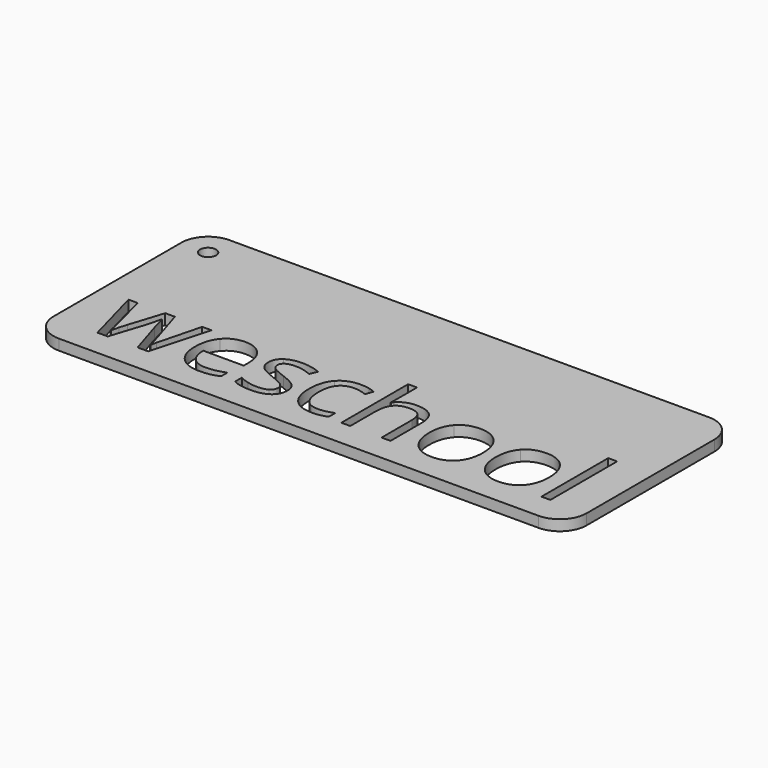
from build123d import *

# Parameters (mm, degrees)
F0_W     = 1.6708725437
F0_H     = 15.6559791523
F0_R     = 1.5
F1_DEPTH = 2


with BuildPart() as f1:
    # F0 (on Top) → F1 (new body)
    with BuildSketch(Plane.XY):
        with BuildLine():
            ThreePointArc((0, 5), (1.4644660941, 1.4644660941), (5, 0))
            Line((5, 0), (95, 0))
            ThreePointArc((95, 0), (98.5355339059, 1.4644660941), (100, 5))
            Line((100, 5), (100, 35))
            ThreePointArc((100, 35), (98.5355339059, 38.5355339059), (95, 40))
            Line((95, 40), (5, 40))
            ThreePointArc((5, 40), (1.4644660941, 38.5355339059), (0, 35))
            Line((0, 35), (0, 5))
        make_face()
        with BuildLine():
            Line((17.7585123135, 5), (15.7753572328, 5))
            Line((15.7753572328, 5), (13.7535692608, 11.4677898657))
            add(Edge.make_bspline(
                [(13.7535692608, 11.4677898657), (13.5604048049, 12.0633802715), (13.0388607739, 14.1656534334)],
                knots=[0, 0, 0, 1, 1, 1], degree=2))
            Line((13.0388607739, 14.1656534334), (12.9583755839, 14.1656534334))
            add(Edge.make_bspline(
                [(12.9583755839, 14.1656534334), (12.5559496341, 12.4046374769), (12.2533253198, 11.4484734201)],
                knots=[0, 0, 0, 1, 1, 1], degree=2))
            Line((12.2533253198, 11.4484734201), (10.1703686035, 5))
            Line((10.1703686035, 5), (8.2387240443, 5))
            Line((8.2387240443, 5), (5.2317973471, 16.0264710255))
            Line((5.2317973471, 16.0264710255), (6.9831550808, 16.0264710255))
            add(Edge.make_bspline(
                [(6.9831550808, 16.0264710255), (8.0487789959, 11.8702158156), (8.6073462143, 9.6971156865)],
                knots=[0, 0, 0, 1, 1, 1], degree=2))
            add(Edge.make_bspline(
                [(8.6073462143, 9.6971156865), (9.1659134327, 7.5240155574), (9.2463986226, 6.7706741793)],
                knots=[0, 0, 0, 1, 1, 1], degree=2))
            Line((9.2463986226, 6.7706741793), (9.3268838126, 6.7706741793))
            add(Edge.make_bspline(
                [(9.3268838126, 6.7706741793), (9.436343671, 7.3437287318), (9.6826283523, 8.2548210823)],
                knots=[0, 0, 0, 1, 1, 1], degree=2))
            add(Edge.make_bspline(
                [(9.6826283523, 8.2548210823), (9.9289130336, 9.1659134327), (10.1124192667, 9.6971156865)],
                knots=[0, 0, 0, 1, 1, 1], degree=2))
            Line((10.1124192667, 9.6971156865), (12.1342072387, 16.0264710255))
            Line((12.1342072387, 16.0264710255), (13.9435143091, 16.0264710255))
            Line((13.9435143091, 16.0264710255), (15.9170111671, 9.6971156865))
            add(Edge.make_bspline(
                [(15.9170111671, 9.6971156865), (16.4804074969, 7.968293806), (16.680010768, 6.7899906249)],
                knots=[0, 0, 0, 1, 1, 1], degree=2))
            Line((16.680010768, 6.7899906249), (16.7604959579, 6.7899906249))
            add(Edge.make_bspline(
                [(16.7604959579, 6.7899906249), (16.8023482567, 7.1537836835), (16.9778059709, 7.9087347654)],
                knots=[0, 0, 0, 1, 1, 1], degree=2))
            add(Edge.make_bspline(
                [(16.9778059709, 7.9087347654), (17.153263685, 8.6636858473), (19.0752500214, 16.0264710255)],
                knots=[0, 0, 0, 1, 1, 1], degree=2))
            Line((19.0752500214, 16.0264710255), (20.8040719019, 16.0264710255))
            Line((20.8040719019, 16.0264710255), (17.7585123135, 5))
        make_face(mode=Mode.SUBTRACT)
        with BuildLine():
            add(Edge.make_bspline(
                [(29.3612572992, 4.9645865164), (28.5725024375, 4.7971773213), (27.4553680007, 4.7971773213)],
                knots=[0, 0, 0, 1, 1, 1], degree=2))
            add(Edge.make_bspline(
                [(27.4553680007, 4.7971773213), (25.0118376333, 4.7971773213), (23.5969079937, 6.2877630395)],
                knots=[0, 0, 0, 1, 1, 1], degree=2))
            add(Edge.make_bspline(
                [(23.5969079937, 6.2877630395), (22.1819783541, 7.7783487577), (22.1819783541, 10.4214823962)],
                knots=[0, 0, 0, 1, 1, 1], degree=2))
            add(Edge.make_bspline(
                [(22.1819783541, 10.4214823962), (22.1819783541, 13.0903712955), (23.4954966544, 14.6598324998)],
                knots=[0, 0, 0, 1, 1, 1], degree=2))
            add(Edge.make_bspline(
                [(23.4954966544, 14.6598324998), (24.8090149546, 16.2292937042), (27.0239673825, 16.2292937042)],
                knots=[0, 0, 0, 1, 1, 1], degree=2))
            add(Edge.make_bspline(
                [(27.0239673825, 16.2292937042), (29.0940464685, 16.2292937042), (30.301324318, 14.8658745861)],
                knots=[0, 0, 0, 1, 1, 1], degree=2))
            add(Edge.make_bspline(
                [(30.301324318, 14.8658745861), (31.5086021675, 13.5024554681), (31.5086021675, 11.2681865946)],
                knots=[0, 0, 0, 1, 1, 1], degree=2))
            Line((31.5086021675, 11.2681865946), (31.5086021675, 10.2122209022))
            Line((31.5086021675, 10.2122209022), (23.9140196422, 10.2122209022))
            add(Edge.make_bspline(
                [(23.9140196422, 10.2122209022), (23.9655301638, 8.2709181203), (24.8959389598, 7.2648532457)],
                knots=[0, 0, 0, 1, 1, 1], degree=2))
            add(Edge.make_bspline(
                [(24.8959389598, 7.2648532457), (25.8263477558, 6.2587883711), (27.5165367451, 6.2587883711)],
                knots=[0, 0, 0, 1, 1, 1], degree=2))
            add(Edge.make_bspline(
                [(27.5165367451, 6.2587883711), (29.2968691472, 6.2587883711), (31.0353492505, 7.0024715264)],
                knots=[0, 0, 0, 1, 1, 1], degree=2))
            Line((31.0353492505, 7.0024715264), (31.0353492505, 5.5118858082))
            add(Edge.make_bspline(
                [(31.0353492505, 5.5118858082), (30.1500121608, 5.1319957115), (29.3612572992, 4.9645865164)],
                knots=[0, 0, 0, 1, 1, 1], degree=2))
        make_face(mode=Mode.SUBTRACT)
        with BuildLine():
            add(Edge.make_bspline(
                [(40.7804960516, 9.829111398), (41.4694492778, 9.1047446883), (41.4694492778, 8.0069266972)],
                knots=[0, 0, 0, 1, 1, 1], degree=2))
            add(Edge.make_bspline(
                [(41.4694492778, 8.0069266972), (41.4694492778, 6.468049865), (40.3233401726, 5.6326135931)],
                knots=[0, 0, 0, 1, 1, 1], degree=2))
            add(Edge.make_bspline(
                [(40.3233401726, 5.6326135931), (39.1772310675, 4.7971773213), (37.103932574, 4.7971773213)],
                knots=[0, 0, 0, 1, 1, 1], degree=2))
            add(Edge.make_bspline(
                [(37.103932574, 4.7971773213), (34.9115159993, 4.7971773213), (33.6849217042, 5.4925693626)],
                knots=[0, 0, 0, 1, 1, 1], degree=2))
            Line((33.6849217042, 5.4925693626), (33.6849217042, 7.0411044176))
            add(Edge.make_bspline(
                [(33.6849217042, 7.0411044176), (34.480115381, 6.6386784677), (35.3895980277, 6.4084908244)],
                knots=[0, 0, 0, 1, 1, 1], degree=2))
            add(Edge.make_bspline(
                [(35.3895980277, 6.4084908244), (36.2990806743, 6.1783031811), (37.1457848727, 6.1783031811)],
                knots=[0, 0, 0, 1, 1, 1], degree=2))
            add(Edge.make_bspline(
                [(37.1457848727, 6.1783031811), (38.4528643578, 6.1783031811), (39.1563049181, 6.5952164651)],
                knots=[0, 0, 0, 1, 1, 1], degree=2))
            add(Edge.make_bspline(
                [(39.1563049181, 6.5952164651), (39.8597454784, 7.0121297492), (39.8597454784, 7.8684921704)],
                knots=[0, 0, 0, 1, 1, 1], degree=2))
            add(Edge.make_bspline(
                [(39.8597454784, 7.8684921704), (39.8597454784, 8.5123736902), (39.3027879638, 8.9695295692)],
                knots=[0, 0, 0, 1, 1, 1], degree=2))
            add(Edge.make_bspline(
                [(39.3027879638, 8.9695295692), (38.7458304493, 9.4266854482), (37.1232490195, 10.0512505223)],
                knots=[0, 0, 0, 1, 1, 1], degree=2))
            add(Edge.make_bspline(
                [(37.1232490195, 10.0512505223), (35.5843721874, 10.6243050749), (34.9356615563, 11.0524862855)],
                knots=[0, 0, 0, 1, 1, 1], degree=2))
            add(Edge.make_bspline(
                [(34.9356615563, 11.0524862855), (34.2869509251, 11.4806674961), (33.9698392766, 12.0231376765)],
                knots=[0, 0, 0, 1, 1, 1], degree=2))
            add(Edge.make_bspline(
                [(33.9698392766, 12.0231376765), (33.6527276282, 12.5656078569), (33.6527276282, 13.318949235)],
                knots=[0, 0, 0, 1, 1, 1], degree=2))
            add(Edge.make_bspline(
                [(33.6527276282, 13.318949235), (33.6527276282, 14.6678810188), (34.7505456193, 15.4485873615)],
                knots=[0, 0, 0, 1, 1, 1], degree=2))
            add(Edge.make_bspline(
                [(34.7505456193, 15.4485873615), (35.8483636105, 16.2292937042), (37.7574723165, 16.2292937042)],
                knots=[0, 0, 0, 1, 1, 1], degree=2))
            add(Edge.make_bspline(
                [(37.7574723165, 16.2292937042), (39.5378047186, 16.2292937042), (41.2408713382, 15.5049269945)],
                knots=[0, 0, 0, 1, 1, 1], degree=2))
            Line((41.2408713382, 15.5049269945), (40.6452809325, 14.1463369878))
            add(Edge.make_bspline(
                [(40.6452809325, 14.1463369878), (38.9872860192, 14.8288513987), (37.6383542353, 14.8288513987)],
                knots=[0, 0, 0, 1, 1, 1], degree=2))
            add(Edge.make_bspline(
                [(37.6383542353, 14.8288513987), (36.4503928314, 14.8288513987), (35.8467539067, 14.4570098211)],
                knots=[0, 0, 0, 1, 1, 1], degree=2))
            add(Edge.make_bspline(
                [(35.8467539067, 14.4570098211), (35.2431149819, 14.0851682435), (35.2431149819, 13.4316285009)],
                knots=[0, 0, 0, 1, 1, 1], degree=2))
            add(Edge.make_bspline(
                [(35.2431149819, 13.4316285009), (35.2431149819, 12.9873502523), (35.4700832176, 12.676677419)],
                knots=[0, 0, 0, 1, 1, 1], degree=2))
            add(Edge.make_bspline(
                [(35.4700832176, 12.676677419), (35.6970514533, 12.3660045858), (36.1992790387, 12.0843064209)],
                knots=[0, 0, 0, 1, 1, 1], degree=2))
            add(Edge.make_bspline(
                [(36.1992790387, 12.0843064209), (36.7015066241, 11.802608256), (38.1309235979, 11.2681865946)],
                knots=[0, 0, 0, 1, 1, 1], degree=2))
            add(Edge.make_bspline(
                [(38.1309235979, 11.2681865946), (40.0915428255, 10.5534781077), (40.7804960516, 9.829111398)],
                knots=[0, 0, 0, 1, 1, 1], degree=2))
        make_face(mode=Mode.SUBTRACT)
        with BuildLine():
            add(Edge.make_bspline(
                [(51.3787858665, 5.3734512814), (50.2745290601, 4.7971773213), (48.5939982936, 4.7971773213)],
                knots=[0, 0, 0, 1, 1, 1], degree=2))
            add(Edge.make_bspline(
                [(48.5939982936, 4.7971773213), (46.1987590402, 4.7971773213), (44.8852407399, 6.2716660015)],
                knots=[0, 0, 0, 1, 1, 1], degree=2))
            add(Edge.make_bspline(
                [(44.8852407399, 6.2716660015), (43.5717224397, 7.7461546817), (43.5717224397, 10.4440182494)],
                knots=[0, 0, 0, 1, 1, 1], degree=2))
            add(Edge.make_bspline(
                [(43.5717224397, 10.4440182494), (43.5717224397, 13.2094893766), (44.9061668893, 14.7193915404)],
                knots=[0, 0, 0, 1, 1, 1], degree=2))
            add(Edge.make_bspline(
                [(44.9061668893, 14.7193915404), (46.240611339, 16.2292937042), (48.703458152, 16.2292937042)],
                knots=[0, 0, 0, 1, 1, 1], degree=2))
            add(Edge.make_bspline(
                [(48.703458152, 16.2292937042), (49.4986518288, 16.2292937042), (50.2938455057, 16.0570553976)],
                knots=[0, 0, 0, 1, 1, 1], degree=2))
            add(Edge.make_bspline(
                [(50.2938455057, 16.0570553976), (51.0890391826, 15.8848170911), (51.5397562464, 15.653019744)],
                knots=[0, 0, 0, 1, 1, 1], degree=2))
            Line((51.5397562464, 15.653019744), (51.0278704382, 14.2364804006))
            add(Edge.make_bspline(
                [(51.0278704382, 14.2364804006), (50.4741323312, 14.4586195249), (49.8205925887, 14.6034928668)],
                knots=[0, 0, 0, 1, 1, 1], degree=2))
            add(Edge.make_bspline(
                [(49.8205925887, 14.6034928668), (49.1670528462, 14.7483662088), (48.6648252608, 14.7483662088)],
                knots=[0, 0, 0, 1, 1, 1], degree=2))
            add(Edge.make_bspline(
                [(48.6648252608, 14.7483662088), (45.3037637278, 14.7483662088), (45.3037637278, 10.4633346949)],
                knots=[0, 0, 0, 1, 1, 1], degree=2))
            add(Edge.make_bspline(
                [(45.3037637278, 10.4633346949), (45.3037637278, 8.4318885002), (46.1231029616, 7.3453384356)],
                knots=[0, 0, 0, 1, 1, 1], degree=2))
            add(Edge.make_bspline(
                [(46.1231029616, 7.3453384356), (46.9424421955, 6.2587883711), (48.5521459948, 6.2587883711)],
                knots=[0, 0, 0, 1, 1, 1], degree=2))
            add(Edge.make_bspline(
                [(48.5521459948, 6.2587883711), (49.9300524471, 6.2587883711), (51.3787858665, 6.8511593692)],
                knots=[0, 0, 0, 1, 1, 1], degree=2))
            Line((51.3787858665, 6.8511593692), (51.3787858665, 5.3734512814))
        make_face(mode=Mode.SUBTRACT)
        with BuildLine():
            Line((63.2133281992, 5), (61.5424556555, 5))
            Line((61.5424556555, 5), (61.5424556555, 12.1342072387))
            add(Edge.make_bspline(
                [(61.5424556555, 12.1342072387), (61.5424556555, 13.4799196149), (60.9291585079, 14.144727284)],
                knots=[0, 0, 0, 1, 1, 1], degree=2))
            add(Edge.make_bspline(
                [(60.9291585079, 14.144727284), (60.3158613604, 14.8095349532), (59.0055624677, 14.8095349532)],
                knots=[0, 0, 0, 1, 1, 1], degree=2))
            add(Edge.make_bspline(
                [(59.0055624677, 14.8095349532), (57.2670823644, 14.8095349532), (56.4670595762, 13.8630291191)],
                knots=[0, 0, 0, 1, 1, 1], degree=2))
            add(Edge.make_bspline(
                [(56.4670595762, 13.8630291191), (55.6670367879, 12.9165232851), (55.6670367879, 10.7659590092)],
                knots=[0, 0, 0, 1, 1, 1], degree=2))
            Line((55.6670367879, 10.7659590092), (55.6670367879, 5))
            Line((55.6670367879, 5), (53.9961642442, 5))
            Line((53.9961642442, 5), (53.9961642442, 20.6559791523))
            Line((53.9961642442, 20.6559791523), (55.6670367879, 20.6559791523))
            Line((55.6670367879, 20.6559791523), (55.6670367879, 15.9170111671))
            add(Edge.make_bspline(
                [(55.6670367879, 15.9170111671), (55.6670367879, 15.0606487458), (55.5865515979, 14.4972524161)],
                knots=[0, 0, 0, 1, 1, 1], degree=2))
            Line((55.5865515979, 14.4972524161), (55.6863532335, 14.4972524161))
            add(Edge.make_bspline(
                [(55.6863532335, 14.4972524161), (56.1789225961, 15.292446093), (57.0900149465, 15.749601972)],
                knots=[0, 0, 0, 1, 1, 1], degree=2))
            add(Edge.make_bspline(
                [(57.0900149465, 15.749601972), (58.0011072969, 16.206757851), (59.1665328477, 16.206757851)],
                knots=[0, 0, 0, 1, 1, 1], degree=2))
            add(Edge.make_bspline(
                [(59.1665328477, 16.206757851), (61.1883208196, 16.206757851), (62.2008245094, 15.2457646828)],
                knots=[0, 0, 0, 1, 1, 1], degree=2))
            add(Edge.make_bspline(
                [(62.2008245094, 15.2457646828), (63.2133281992, 14.2847715146), (63.2133281992, 12.1921565754)],
                knots=[0, 0, 0, 1, 1, 1], degree=2))
            Line((63.2133281992, 12.1921565754), (63.2133281992, 5))
        make_face(mode=Mode.SUBTRACT)
        with BuildLine():
            add(Edge.make_bspline(
                [(74.7951470354, 14.6888071682), (76.1585661534, 13.1483206322), (76.1585661534, 10.5245034393)],
                knots=[0, 0, 0, 1, 1, 1], degree=2))
            add(Edge.make_bspline(
                [(76.1585661534, 10.5245034393), (76.1585661534, 7.8266398716), (74.8015858506, 6.3119085965)],
                knots=[0, 0, 0, 1, 1, 1], degree=2))
            add(Edge.make_bspline(
                [(74.8015858506, 6.3119085965), (73.4446055478, 4.7971773213), (71.0493662944, 4.7971773213)],
                knots=[0, 0, 0, 1, 1, 1], degree=2))
            add(Edge.make_bspline(
                [(71.0493662944, 4.7971773213), (69.568438799, 4.7971773213), (68.4223296938, 5.4925693626)],
                knots=[0, 0, 0, 1, 1, 1], degree=2))
            add(Edge.make_bspline(
                [(68.4223296938, 5.4925693626), (67.2762205887, 6.1879614039), (66.6516555146, 7.4853826662)],
                knots=[0, 0, 0, 1, 1, 1], degree=2))
            add(Edge.make_bspline(
                [(66.6516555146, 7.4853826662), (66.0270904404, 8.7828039284), (66.0270904404, 10.5245034393)],
                knots=[0, 0, 0, 1, 1, 1], degree=2))
            add(Edge.make_bspline(
                [(66.0270904404, 10.5245034393), (66.0270904404, 13.2191475994), (67.3760222243, 14.7242206518)],
                knots=[0, 0, 0, 1, 1, 1], degree=2))
            add(Edge.make_bspline(
                [(67.3760222243, 14.7242206518), (68.7249540081, 16.2292937042), (71.1201932615, 16.2292937042)],
                knots=[0, 0, 0, 1, 1, 1], degree=2))
            add(Edge.make_bspline(
                [(71.1201932615, 16.2292937042), (73.4317279174, 16.2292937042), (74.7951470354, 14.6888071682)],
                knots=[0, 0, 0, 1, 1, 1], degree=2))
        make_face(mode=Mode.SUBTRACT)
        with BuildLine():
            add(Edge.make_bspline(
                [(87.2413768119, 14.6888071682), (88.6047959299, 13.1483206322), (88.6047959299, 10.5245034393)],
                knots=[0, 0, 0, 1, 1, 1], degree=2))
            add(Edge.make_bspline(
                [(88.6047959299, 10.5245034393), (88.6047959299, 7.8266398716), (87.2478156271, 6.3119085965)],
                knots=[0, 0, 0, 1, 1, 1], degree=2))
            add(Edge.make_bspline(
                [(87.2478156271, 6.3119085965), (85.8908353242, 4.7971773213), (83.4955960708, 4.7971773213)],
                knots=[0, 0, 0, 1, 1, 1], degree=2))
            add(Edge.make_bspline(
                [(83.4955960708, 4.7971773213), (82.0146685754, 4.7971773213), (80.8685594703, 5.4925693626)],
                knots=[0, 0, 0, 1, 1, 1], degree=2))
            add(Edge.make_bspline(
                [(80.8685594703, 5.4925693626), (79.7224503652, 6.1879614039), (79.097885291, 7.4853826662)],
                knots=[0, 0, 0, 1, 1, 1], degree=2))
            add(Edge.make_bspline(
                [(79.097885291, 7.4853826662), (78.4733202169, 8.7828039284), (78.4733202169, 10.5245034393)],
                knots=[0, 0, 0, 1, 1, 1], degree=2))
            add(Edge.make_bspline(
                [(78.4733202169, 10.5245034393), (78.4733202169, 13.2191475994), (79.8222520007, 14.7242206518)],
                knots=[0, 0, 0, 1, 1, 1], degree=2))
            add(Edge.make_bspline(
                [(79.8222520007, 14.7242206518), (81.1711837846, 16.2292937042), (83.566423038, 16.2292937042)],
                knots=[0, 0, 0, 1, 1, 1], degree=2))
            add(Edge.make_bspline(
                [(83.566423038, 16.2292937042), (85.8779576938, 16.2292937042), (87.2413768119, 14.6888071682)],
                knots=[0, 0, 0, 1, 1, 1], degree=2))
        make_face(mode=Mode.SUBTRACT)
        with Locations((92.3698931166, 12.8279895762)):
            Rectangle(F0_W, F0_H, mode=Mode.SUBTRACT)
        with Locations((5, 35)):
            Circle(F0_R, mode=Mode.SUBTRACT)
    extrude(amount=F1_DEPTH)


solid = f1.part
